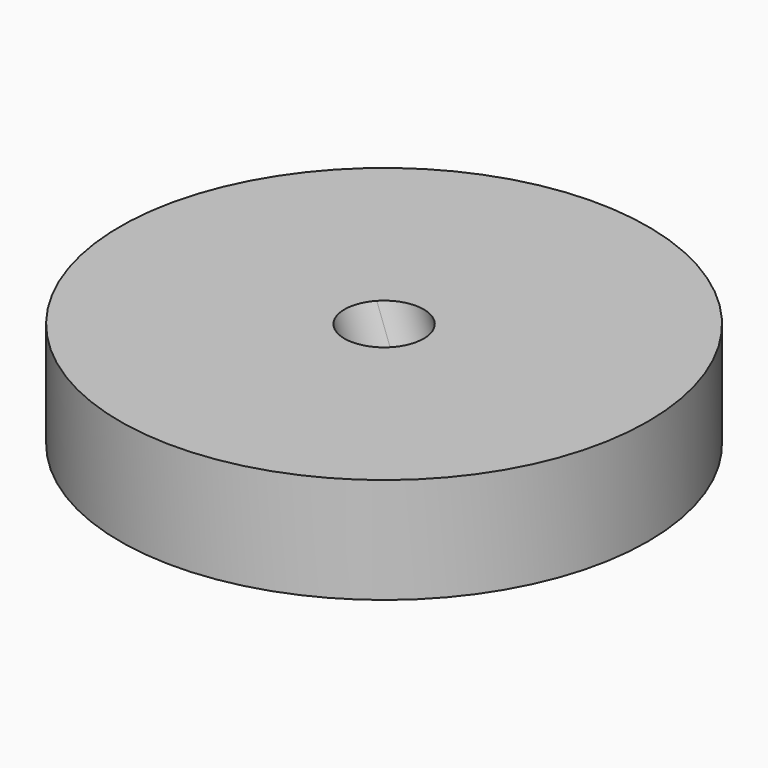
from build123d import *

# Parameters (mm, degrees)
F0_R     = 63.5
F1_DEPTH = 25.4


with BuildPart() as f1:
    # F0 (on Top) → F1 (new body)
    with BuildSketch(Plane.XY):
        Circle(F0_R)
    extrude(amount=F1_DEPTH)

    # F5: sweep along a path in F4
    with BuildLine(Plane.XZ.offset(63.5)) as f5_path:
        Line((9.4091071018, 0), (0, 25.8513092995))
    # F2 (on face) → F5 (sweep, cut)
    with BuildSketch(Plane.XY.offset(25.4)):
        with BuildLine():
            Line((6.5021446088, 6.9604411129), (0, 0))
            Line((0, 0), (6.9604411129, -6.5021446088))
            ThreePointArc((6.9604411129, -6.5021446088), (8.8606948543, -3.4948121122), (9.525, 0))
            ThreePointArc((9.525, 0), (8.736662761, 3.7942520739), (6.5021446088, 6.9604411129))
        make_face()
        with BuildLine():
            Line((-6.9604411129, 6.5021446088), (0, 0))
            Line((0, 0), (6.5021446088, 6.9604411129))
            ThreePointArc((6.5021446088, 6.9604411129), (-0.3240645658, 9.5194856561), (-6.9604411129, 6.5021446088))
        make_face()
        with BuildLine():
            Line((-6.5021446088, -6.9604411129), (0, 0))
            Line((0, 0), (-6.9604411129, 6.5021446088))
            ThreePointArc((-6.9604411129, 6.5021446088), (-9.5194856561, -0.3240645658), (-6.5021446088, -6.9604411129))
        make_face()
        with BuildLine():
            Line((6.9604411129, -6.5021446088), (0, 0))
            Line((0, 0), (-6.5021446088, -6.9604411129))
            ThreePointArc((-6.5021446088, -6.9604411129), (0.3240645658, -9.5194856561), (6.9604411129, -6.5021446088))
        make_face()
    sweep(path=f5_path.line, mode=Mode.SUBTRACT)


solid = f1.part
